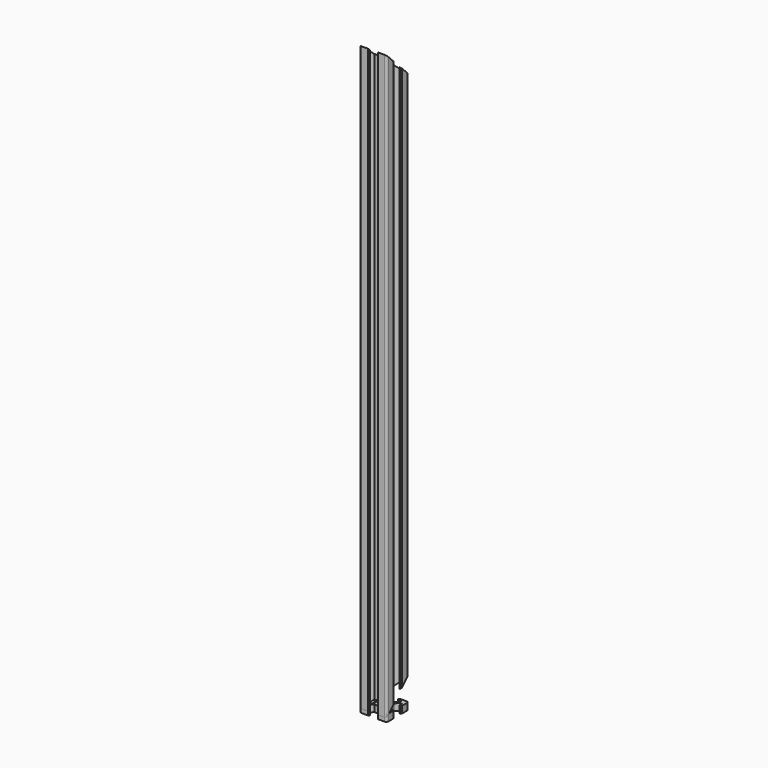
from build123d import *

# Parameters (mm, degrees)
PAD_DEPTH         = 5
POCKET_DEPTH      = 5.001
BOX001_W          = 30
BOX001_H          = 35
BOX001_DEPTH      = 25
BOX001_ROLL_ANGLE = -45
BOX_W             = 30
BOX_H             = 57
BOX_DEPTH         = 26
BOX_ROLL_ANGLE    = 45
EXTRUDE001_DEPTH  = 431
EXTRUDE_DEPTH     = 427


with BuildPart() as pocket:
    # Sketch → Pad (new body)
    with BuildSketch(Plane(origin=(1.5, 0, 0), x_dir=(1, 0, 0), z_dir=(0, 0, 1))):
        with BuildLine():
            Line((0, 20), (4.65, 20))
            ThreePointArc((4.85, 19.8), (4.791421, 19.941421), (4.65, 20))
            Line((4.85, 19.8), (4.85, 19.5))
            Line((4.85, 19.5), (5.2, 19.5))
            ThreePointArc((5.4, 19.3), (5.341421, 19.441421), (5.2, 19.5))
            Line((5.4, 19.3), (5.4, 19))
            ThreePointArc((4.9, 18.5), (5.253553, 18.646446), (5.4, 19))
            Line((4.9, 18.5), (2.999999, 18.5))
            ThreePointArc((2.999999, 18.5), (2.646446, 18.353553), (2.499999, 18))
            Line((2.499999, 18), (2.499999, 17.267767))
            ThreePointArc((2.499999, 17.267767), (2.53806, 17.076425), (2.646446, 16.914213))
            Line((2.646446, 16.914213), (4.914213, 14.646447))
            ThreePointArc((4.914213, 14.646447), (5.076424, 14.53806), (5.267766, 14.5))
            Line((5.267766, 14.5), (7.54641, 14.5))
            ThreePointArc((7.64641, 14.473205), (7.598173, 14.493185), (7.54641, 14.5))
            Line((7.64641, 14.473205), (8.4, 14.03812))
            ThreePointArc((8.4, 14.03812), (8.5, 14.011325), (8.6, 14.03812))
            Line((8.6, 14.03812), (9.35359, 14.473205))
            ThreePointArc((9.45359, 14.5), (9.401827, 14.493185), (9.35359, 14.473205))
            Line((9.45359, 14.5), (11.732234, 14.5))
            ThreePointArc((11.732234, 14.5), (11.923576, 14.53806), (12.085787, 14.646447))
            Line((12.085787, 14.646447), (14.353554, 16.914213))
            ThreePointArc((14.353554, 16.914213), (14.46194, 17.076425), (14.500001, 17.267767))
            Line((14.500001, 17.267767), (14.500001, 18))
            ThreePointArc((14.500001, 18), (14.353554, 18.353553), (14.000001, 18.5))
            Line((14.000001, 18.5), (12.1, 18.5))
            ThreePointArc((11.6, 19), (11.746447, 18.646446), (12.1, 18.5))
            Line((11.6, 19), (11.6, 19.3))
            ThreePointArc((11.8, 19.5), (11.658579, 19.441421), (11.6, 19.3))
            Line((11.8, 19.5), (12.15, 19.5))
            Line((12.15, 19.5), (12.15, 19.8))
            ThreePointArc((12.35, 20), (12.208579, 19.941421), (12.15, 19.8))
            Line((12.35, 20), (17, 20))
            ThreePointArc((18.5, 18.5), (18.06066, 19.56066), (17, 20))
            Line((18.5, 18.5), (18.5, 13.85))
            ThreePointArc((18.3, 13.65), (18.441421, 13.708578), (18.5, 13.85))
            Line((18.3, 13.65), (18, 13.65))
            Line((18, 13.65), (18, 13.3))
            ThreePointArc((17.8, 13.1), (17.941421, 13.158579), (18, 13.3))
            Line((17.8, 13.1), (17.5, 13.1))
            ThreePointArc((17, 13.6), (17.146446, 13.246447), (17.5, 13.1))
            Line((17, 13.6), (17, 15.5))
            ThreePointArc((17, 15.5), (16.853553, 15.853553), (16.5, 16))
            Line((16.5, 16), (15.767767, 16))
            ThreePointArc((15.767767, 16), (15.576425, 15.961939), (15.414213, 15.853553))
            Line((15.414213, 15.853553), (13.146446, 13.585786))
            ThreePointArc((13.146446, 13.585786), (13.03806, 13.423574), (13, 13.232233))
            Line((13, 13.232233), (13, 10.953589))
            ThreePointArc((12.973205, 10.853589), (12.993185, 10.901825), (13, 10.953589))
            Line((12.973205, 10.853589), (12.53812, 10.1))
            ThreePointArc((12.53812, 10.1), (12.511325, 10), (12.53812, 9.9))
            Line((12.53812, 9.9), (12.973205, 9.146411))
            ThreePointArc((13, 9.046411), (12.993185, 9.098175), (12.973205, 9.146411))
            Line((13, 9.046411), (13, 6.767767))
            ThreePointArc((13, 6.767767), (13.03806, 6.576426), (13.146446, 6.414214))
            Line((13.146446, 6.414214), (15.414213, 4.146447))
            ThreePointArc((15.414213, 4.146447), (15.576425, 4.038061), (15.767767, 4))
            Line((15.767767, 4), (16.5, 4))
            ThreePointArc((16.5, 4), (16.853553, 4.146447), (17, 4.5))
            Line((17, 4.5), (17, 6.4))
            ThreePointArc((17.5, 6.9), (17.146446, 6.753553), (17, 6.4))
            Line((17.5, 6.9), (17.8, 6.9))
            ThreePointArc((18, 6.7), (17.941421, 6.841421), (17.8, 6.9))
            Line((18, 6.7), (18, 6.35))
            Line((18, 6.35), (18.3, 6.35))
            ThreePointArc((18.5, 6.15), (18.441421, 6.291422), (18.3, 6.35))
            Line((18.5, 6.15), (18.5, 1.5))
            ThreePointArc((17, 0), (18.06066, 0.43934), (18.5, 1.5))
            Line((17, 0), (12.35, 0))
            ThreePointArc((12.15, 0.2), (12.208579, 0.058579), (12.35, 0))
            Line((12.15, 0.2), (12.15, 0.5))
            Line((12.15, 0.5), (11.8, 0.5))
            ThreePointArc((11.6, 0.7), (11.658579, 0.558579), (11.8, 0.5))
            Line((11.6, 0.7), (11.6, 1))
            ThreePointArc((12.1, 1.5), (11.746447, 1.353554), (11.6, 1))
            Line((12.1, 1.5), (14.000001, 1.5))
            ThreePointArc((14.000001, 1.5), (14.353554, 1.646447), (14.500001, 2))
            Line((14.500001, 2), (14.500001, 2.732233))
            ThreePointArc((14.500001, 2.732233), (14.46194, 2.923575), (14.353554, 3.085787))
            Line((14.353554, 3.085787), (12.085787, 5.353553))
            ThreePointArc((12.085787, 5.353553), (11.923576, 5.46194), (11.732234, 5.5))
            Line((11.732234, 5.5), (9.45359, 5.5))
            ThreePointArc((9.35359, 5.526795), (9.401827, 5.506815), (9.45359, 5.5))
            Line((9.35359, 5.526795), (8.6, 5.96188))
            ThreePointArc((8.6, 5.96188), (8.5, 5.988675), (8.4, 5.96188))
            Line((8.4, 5.96188), (7.64641, 5.526795))
            ThreePointArc((7.54641, 5.5), (7.598173, 5.506815), (7.64641, 5.526795))
            Line((7.54641, 5.5), (5.267766, 5.5))
            ThreePointArc((5.267766, 5.5), (5.076424, 5.46194), (4.914213, 5.353553))
            Line((4.914213, 5.353553), (2.646446, 3.085787))
            ThreePointArc((2.646446, 3.085787), (2.53806, 2.923575), (2.499999, 2.732233))
            Line((2.499999, 2.732233), (2.499999, 2))
            ThreePointArc((2.499999, 2), (2.646446, 1.646447), (2.999999, 1.5))
            Line((2.999999, 1.5), (4.9, 1.5))
            ThreePointArc((5.4, 1), (5.253553, 1.353554), (4.9, 1.5))
            Line((5.4, 1), (5.4, 0.7))
            ThreePointArc((5.2, 0.5), (5.341421, 0.558579), (5.4, 0.7))
            Line((5.2, 0.5), (4.85, 0.5))
            Line((4.85, 0.5), (4.85, 0.2))
            ThreePointArc((4.65, 0), (4.791421, 0.058579), (4.85, 0.2))
            Line((4.65, 0), (0, 0))
            ThreePointArc((-1.5, 1.5), (-1.06066, 0.43934), (0, 0))
            Line((-1.5, 1.5), (-1.5, 6.15))
            ThreePointArc((-1.3, 6.35), (-1.441421, 6.291422), (-1.5, 6.15))
            Line((-1.3, 6.35), (-1, 6.35))
            Line((-1, 6.35), (-1, 6.7))
            ThreePointArc((-0.8, 6.9), (-0.941421, 6.841421), (-1, 6.7))
            Line((-0.8, 6.9), (-0.5, 6.9))
            ThreePointArc((0, 6.4), (-0.146446, 6.753553), (-0.5, 6.9))
            Line((0, 6.4), (0, 4.5))
            ThreePointArc((0, 4.5), (0.146447, 4.146447), (0.5, 4))
            Line((0.5, 4), (1.232233, 4))
            ThreePointArc((1.232233, 4), (1.423575, 4.038061), (1.585787, 4.146447))
            Line((1.585787, 4.146447), (3.853554, 6.414214))
            ThreePointArc((3.853554, 6.414214), (3.96194, 6.576426), (4, 6.767767))
            Line((4, 6.767767), (4, 9.046411))
            ThreePointArc((4.026795, 9.146411), (4.006815, 9.098175), (4, 9.046411))
            Line((4.026795, 9.146411), (4.46188, 9.9))
            ThreePointArc((4.46188, 9.9), (4.488675, 10), (4.46188, 10.1))
            Line((4.46188, 10.1), (4.026795, 10.853589))
            ThreePointArc((4, 10.953589), (4.006815, 10.901825), (4.026795, 10.853589))
            Line((4, 10.953589), (4, 13.232233))
            ThreePointArc((4, 13.232233), (3.96194, 13.423574), (3.853554, 13.585786))
            Line((3.853554, 13.585786), (1.585787, 15.853553))
            ThreePointArc((1.585787, 15.853553), (1.423575, 15.961939), (1.232233, 16))
            Line((1.232233, 16), (0.5, 16))
            ThreePointArc((0.5, 16), (0.146447, 15.853553), (0, 15.5))
            Line((0, 15.5), (0, 13.6))
            ThreePointArc((-0.5, 13.1), (-0.146446, 13.246447), (0, 13.6))
            Line((-0.5, 13.1), (-0.8, 13.1))
            ThreePointArc((-1, 13.3), (-0.941421, 13.158579), (-0.8, 13.1))
            Line((-1, 13.3), (-1, 13.65))
            Line((-1, 13.65), (-1.3, 13.65))
            ThreePointArc((-1.5, 13.85), (-1.441421, 13.708578), (-1.3, 13.65))
            Line((-1.5, 13.85), (-1.5, 18.5))
            ThreePointArc((0, 20), (-1.06066, 19.56066), (-1.5, 18.5))
        make_face()
    extrude(amount=PAD_DEPTH)

    # Sketch001 → Pocket (cut, through all)
    with BuildSketch(Plane(origin=(1.5, 0, 5), x_dir=(1, 0, 0), z_dir=(0, 0, 1))):
        with BuildLine():
            ThreePointArc((6.586105, 12.989641), (5.988263, 12.50841), (5.507825, 11.909931))
            Line((6.054705, 11.258185), (5.507825, 11.909931))
            ThreePointArc((6.054705, 11.258185), (5.75, 10), (6.054705, 8.741815))
            Line((5.507825, 8.090069), (6.054705, 8.741815))
            ThreePointArc((5.507825, 8.090069), (5.988263, 7.49159), (6.586105, 7.010359))
            Line((7.241815, 7.554705), (6.586105, 7.010359))
            ThreePointArc((7.241815, 7.554705), (8.5, 7.25), (9.758185, 7.554705))
            Line((10.413895, 7.010359), (9.758185, 7.554705))
            ThreePointArc((10.413895, 7.010359), (11.011737, 7.49159), (11.492175, 8.090069))
            Line((10.945295, 8.741815), (11.492175, 8.090069))
            ThreePointArc((10.945295, 8.741815), (11.25, 10), (10.945295, 11.258185))
            Line((11.492175, 11.909931), (10.945295, 11.258185))
            ThreePointArc((11.492175, 11.909931), (11.011737, 12.50841), (10.413895, 12.989641))
            Line((9.758185, 12.445295), (10.413895, 12.989641))
            ThreePointArc((9.758185, 12.445295), (8.5, 12.75), (7.241815, 12.445295))
            Line((6.586105, 12.989641), (7.241815, 12.445295))
        make_face()
    extrude(amount=-POCKET_DEPTH, mode=Mode.SUBTRACT)


with BuildPart() as cubo001:
    # Box001 → Box001 (new body)
    with BuildSketch(Plane.XY):
        with Locations((15, 17.5)):
            Rectangle(BOX001_W, BOX001_H)
    extrude(amount=BOX001_DEPTH)


with BuildPart() as cubo001_1:
    # Box001 roll: moved
    add(cubo001.part.rotate(Axis((0, 0, 0), (1, 0, 0)), BOX001_ROLL_ANGLE))


with BuildPart() as cubo001_2:
    # Box001 placement: moved
    add(cubo001_1.part.moved(Location((-5, -1, 430))))


with BuildPart() as fusion:
    # Box → Box (new body)
    with BuildSketch(Plane.XY):
        with Locations((15, 28.5)):
            Rectangle(BOX_W, BOX_H)
    extrude(amount=BOX_DEPTH)


with BuildPart() as fusion_1:
    # Box roll: moved
    add(fusion.part.rotate(Axis((0, 0, 0), (1, 0, 0)), BOX_ROLL_ANGLE))


with BuildPart() as fusion_2:
    # Box placement: moved
    add(fusion_1.part.moved(Location((-5, 5, -29))))

    # Fusion: union Cubo001
    add(cubo001_2.part)


with BuildPart() as extrude001:
    # Sketch001 → Extrude001 (new body)
    with BuildSketch(Plane(origin=(1.5, 0, 5), x_dir=(1, 0, 0), z_dir=(0, 0, 1))):
        with BuildLine():
            ThreePointArc((6.586105, 12.989641), (5.988263, 12.50841), (5.507825, 11.909931))
            Line((6.054705, 11.258185), (5.507825, 11.909931))
            ThreePointArc((6.054705, 11.258185), (5.75, 10), (6.054705, 8.741815))
            Line((5.507825, 8.090069), (6.054705, 8.741815))
            ThreePointArc((5.507825, 8.090069), (5.988263, 7.49159), (6.586105, 7.010359))
            Line((7.241815, 7.554705), (6.586105, 7.010359))
            ThreePointArc((7.241815, 7.554705), (8.5, 7.25), (9.758185, 7.554705))
            Line((10.413895, 7.010359), (9.758185, 7.554705))
            ThreePointArc((10.413895, 7.010359), (11.011737, 7.49159), (11.492175, 8.090069))
            Line((10.945295, 8.741815), (11.492175, 8.090069))
            ThreePointArc((10.945295, 8.741815), (11.25, 10), (10.945295, 11.258185))
            Line((11.492175, 11.909931), (10.945295, 11.258185))
            ThreePointArc((11.492175, 11.909931), (11.011737, 12.50841), (10.413895, 12.989641))
            Line((9.758185, 12.445295), (10.413895, 12.989641))
            ThreePointArc((9.758185, 12.445295), (8.5, 12.75), (7.241815, 12.445295))
            Line((6.586105, 12.989641), (7.241815, 12.445295))
        make_face()
    extrude(amount=EXTRUDE001_DEPTH)


with BuildPart() as extrude001_1:
    # Extrude001 placement: moved
    add(extrude001.part.moved(Location((0, 0, -4))))


with BuildPart() as cut001:
    # Sketch → Extrude (new body)
    with BuildSketch(Plane(origin=(1.5, 0, 0), x_dir=(1, 0, 0), z_dir=(0, 0, 1))):
        with BuildLine():
            Line((0, 20), (4.65, 20))
            ThreePointArc((4.85, 19.8), (4.791421, 19.941421), (4.65, 20))
            Line((4.85, 19.8), (4.85, 19.5))
            Line((4.85, 19.5), (5.2, 19.5))
            ThreePointArc((5.4, 19.3), (5.341421, 19.441421), (5.2, 19.5))
            Line((5.4, 19.3), (5.4, 19))
            ThreePointArc((4.9, 18.5), (5.253553, 18.646446), (5.4, 19))
            Line((4.9, 18.5), (2.999999, 18.5))
            ThreePointArc((2.999999, 18.5), (2.646446, 18.353553), (2.499999, 18))
            Line((2.499999, 18), (2.499999, 17.267767))
            ThreePointArc((2.499999, 17.267767), (2.53806, 17.076425), (2.646446, 16.914213))
            Line((2.646446, 16.914213), (4.914213, 14.646447))
            ThreePointArc((4.914213, 14.646447), (5.076424, 14.53806), (5.267766, 14.5))
            Line((5.267766, 14.5), (7.54641, 14.5))
            ThreePointArc((7.64641, 14.473205), (7.598173, 14.493185), (7.54641, 14.5))
            Line((7.64641, 14.473205), (8.4, 14.03812))
            ThreePointArc((8.4, 14.03812), (8.5, 14.011325), (8.6, 14.03812))
            Line((8.6, 14.03812), (9.35359, 14.473205))
            ThreePointArc((9.45359, 14.5), (9.401827, 14.493185), (9.35359, 14.473205))
            Line((9.45359, 14.5), (11.732234, 14.5))
            ThreePointArc((11.732234, 14.5), (11.923576, 14.53806), (12.085787, 14.646447))
            Line((12.085787, 14.646447), (14.353554, 16.914213))
            ThreePointArc((14.353554, 16.914213), (14.46194, 17.076425), (14.500001, 17.267767))
            Line((14.500001, 17.267767), (14.500001, 18))
            ThreePointArc((14.500001, 18), (14.353554, 18.353553), (14.000001, 18.5))
            Line((14.000001, 18.5), (12.1, 18.5))
            ThreePointArc((11.6, 19), (11.746447, 18.646446), (12.1, 18.5))
            Line((11.6, 19), (11.6, 19.3))
            ThreePointArc((11.8, 19.5), (11.658579, 19.441421), (11.6, 19.3))
            Line((11.8, 19.5), (12.15, 19.5))
            Line((12.15, 19.5), (12.15, 19.8))
            ThreePointArc((12.35, 20), (12.208579, 19.941421), (12.15, 19.8))
            Line((12.35, 20), (17, 20))
            ThreePointArc((18.5, 18.5), (18.06066, 19.56066), (17, 20))
            Line((18.5, 18.5), (18.5, 13.85))
            ThreePointArc((18.3, 13.65), (18.441421, 13.708578), (18.5, 13.85))
            Line((18.3, 13.65), (18, 13.65))
            Line((18, 13.65), (18, 13.3))
            ThreePointArc((17.8, 13.1), (17.941421, 13.158579), (18, 13.3))
            Line((17.8, 13.1), (17.5, 13.1))
            ThreePointArc((17, 13.6), (17.146446, 13.246447), (17.5, 13.1))
            Line((17, 13.6), (17, 15.5))
            ThreePointArc((17, 15.5), (16.853553, 15.853553), (16.5, 16))
            Line((16.5, 16), (15.767767, 16))
            ThreePointArc((15.767767, 16), (15.576425, 15.961939), (15.414213, 15.853553))
            Line((15.414213, 15.853553), (13.146446, 13.585786))
            ThreePointArc((13.146446, 13.585786), (13.03806, 13.423574), (13, 13.232233))
            Line((13, 13.232233), (13, 10.953589))
            ThreePointArc((12.973205, 10.853589), (12.993185, 10.901825), (13, 10.953589))
            Line((12.973205, 10.853589), (12.53812, 10.1))
            ThreePointArc((12.53812, 10.1), (12.511325, 10), (12.53812, 9.9))
            Line((12.53812, 9.9), (12.973205, 9.146411))
            ThreePointArc((13, 9.046411), (12.993185, 9.098175), (12.973205, 9.146411))
            Line((13, 9.046411), (13, 6.767767))
            ThreePointArc((13, 6.767767), (13.03806, 6.576426), (13.146446, 6.414214))
            Line((13.146446, 6.414214), (15.414213, 4.146447))
            ThreePointArc((15.414213, 4.146447), (15.576425, 4.038061), (15.767767, 4))
            Line((15.767767, 4), (16.5, 4))
            ThreePointArc((16.5, 4), (16.853553, 4.146447), (17, 4.5))
            Line((17, 4.5), (17, 6.4))
            ThreePointArc((17.5, 6.9), (17.146446, 6.753553), (17, 6.4))
            Line((17.5, 6.9), (17.8, 6.9))
            ThreePointArc((18, 6.7), (17.941421, 6.841421), (17.8, 6.9))
            Line((18, 6.7), (18, 6.35))
            Line((18, 6.35), (18.3, 6.35))
            ThreePointArc((18.5, 6.15), (18.441421, 6.291422), (18.3, 6.35))
            Line((18.5, 6.15), (18.5, 1.5))
            ThreePointArc((17, 0), (18.06066, 0.43934), (18.5, 1.5))
            Line((17, 0), (12.35, 0))
            ThreePointArc((12.15, 0.2), (12.208579, 0.058579), (12.35, 0))
            Line((12.15, 0.2), (12.15, 0.5))
            Line((12.15, 0.5), (11.8, 0.5))
            ThreePointArc((11.6, 0.7), (11.658579, 0.558579), (11.8, 0.5))
            Line((11.6, 0.7), (11.6, 1))
            ThreePointArc((12.1, 1.5), (11.746447, 1.353554), (11.6, 1))
            Line((12.1, 1.5), (14.000001, 1.5))
            ThreePointArc((14.000001, 1.5), (14.353554, 1.646447), (14.500001, 2))
            Line((14.500001, 2), (14.500001, 2.732233))
            ThreePointArc((14.500001, 2.732233), (14.46194, 2.923575), (14.353554, 3.085787))
            Line((14.353554, 3.085787), (12.085787, 5.353553))
            ThreePointArc((12.085787, 5.353553), (11.923576, 5.46194), (11.732234, 5.5))
            Line((11.732234, 5.5), (9.45359, 5.5))
            ThreePointArc((9.35359, 5.526795), (9.401827, 5.506815), (9.45359, 5.5))
            Line((9.35359, 5.526795), (8.6, 5.96188))
            ThreePointArc((8.6, 5.96188), (8.5, 5.988675), (8.4, 5.96188))
            Line((8.4, 5.96188), (7.64641, 5.526795))
            ThreePointArc((7.54641, 5.5), (7.598173, 5.506815), (7.64641, 5.526795))
            Line((7.54641, 5.5), (5.267766, 5.5))
            ThreePointArc((5.267766, 5.5), (5.076424, 5.46194), (4.914213, 5.353553))
            Line((4.914213, 5.353553), (2.646446, 3.085787))
            ThreePointArc((2.646446, 3.085787), (2.53806, 2.923575), (2.499999, 2.732233))
            Line((2.499999, 2.732233), (2.499999, 2))
            ThreePointArc((2.499999, 2), (2.646446, 1.646447), (2.999999, 1.5))
            Line((2.999999, 1.5), (4.9, 1.5))
            ThreePointArc((5.4, 1), (5.253553, 1.353554), (4.9, 1.5))
            Line((5.4, 1), (5.4, 0.7))
            ThreePointArc((5.2, 0.5), (5.341421, 0.558579), (5.4, 0.7))
            Line((5.2, 0.5), (4.85, 0.5))
            Line((4.85, 0.5), (4.85, 0.2))
            ThreePointArc((4.65, 0), (4.791421, 0.058579), (4.85, 0.2))
            Line((4.65, 0), (0, 0))
            ThreePointArc((-1.5, 1.5), (-1.06066, 0.43934), (0, 0))
            Line((-1.5, 1.5), (-1.5, 6.15))
            ThreePointArc((-1.3, 6.35), (-1.441421, 6.291422), (-1.5, 6.15))
            Line((-1.3, 6.35), (-1, 6.35))
            Line((-1, 6.35), (-1, 6.7))
            ThreePointArc((-0.8, 6.9), (-0.941421, 6.841421), (-1, 6.7))
            Line((-0.8, 6.9), (-0.5, 6.9))
            ThreePointArc((0, 6.4), (-0.146446, 6.753553), (-0.5, 6.9))
            Line((0, 6.4), (0, 4.5))
            ThreePointArc((0, 4.5), (0.146447, 4.146447), (0.5, 4))
            Line((0.5, 4), (1.232233, 4))
            ThreePointArc((1.232233, 4), (1.423575, 4.038061), (1.585787, 4.146447))
            Line((1.585787, 4.146447), (3.853554, 6.414214))
            ThreePointArc((3.853554, 6.414214), (3.96194, 6.576426), (4, 6.767767))
            Line((4, 6.767767), (4, 9.046411))
            ThreePointArc((4.026795, 9.146411), (4.006815, 9.098175), (4, 9.046411))
            Line((4.026795, 9.146411), (4.46188, 9.9))
            ThreePointArc((4.46188, 9.9), (4.488675, 10), (4.46188, 10.1))
            Line((4.46188, 10.1), (4.026795, 10.853589))
            ThreePointArc((4, 10.953589), (4.006815, 10.901825), (4.026795, 10.853589))
            Line((4, 10.953589), (4, 13.232233))
            ThreePointArc((4, 13.232233), (3.96194, 13.423574), (3.853554, 13.585786))
            Line((3.853554, 13.585786), (1.585787, 15.853553))
            ThreePointArc((1.585787, 15.853553), (1.423575, 15.961939), (1.232233, 16))
            Line((1.232233, 16), (0.5, 16))
            ThreePointArc((0.5, 16), (0.146447, 15.853553), (0, 15.5))
            Line((0, 15.5), (0, 13.6))
            ThreePointArc((-0.5, 13.1), (-0.146446, 13.246447), (0, 13.6))
            Line((-0.5, 13.1), (-0.8, 13.1))
            ThreePointArc((-1, 13.3), (-0.941421, 13.158579), (-0.8, 13.1))
            Line((-1, 13.3), (-1, 13.65))
            Line((-1, 13.65), (-1.3, 13.65))
            ThreePointArc((-1.5, 13.85), (-1.441421, 13.708578), (-1.3, 13.65))
            Line((-1.5, 13.85), (-1.5, 18.5))
            ThreePointArc((0, 20), (-1.06066, 19.56066), (-1.5, 18.5))
        make_face()
    extrude(amount=EXTRUDE_DEPTH)


with BuildPart() as cut001_1:
    # Extrude placement: moved
    add(cut001.part.moved(Location((0, 0, 2))))

    # Cut: cut Extrude001
    add(extrude001_1.part, mode=Mode.SUBTRACT)

    # Cut001: cut Fusion
    add(fusion_2.part, mode=Mode.SUBTRACT)


solid = Compound([pocket.part, cut001_1.part])
